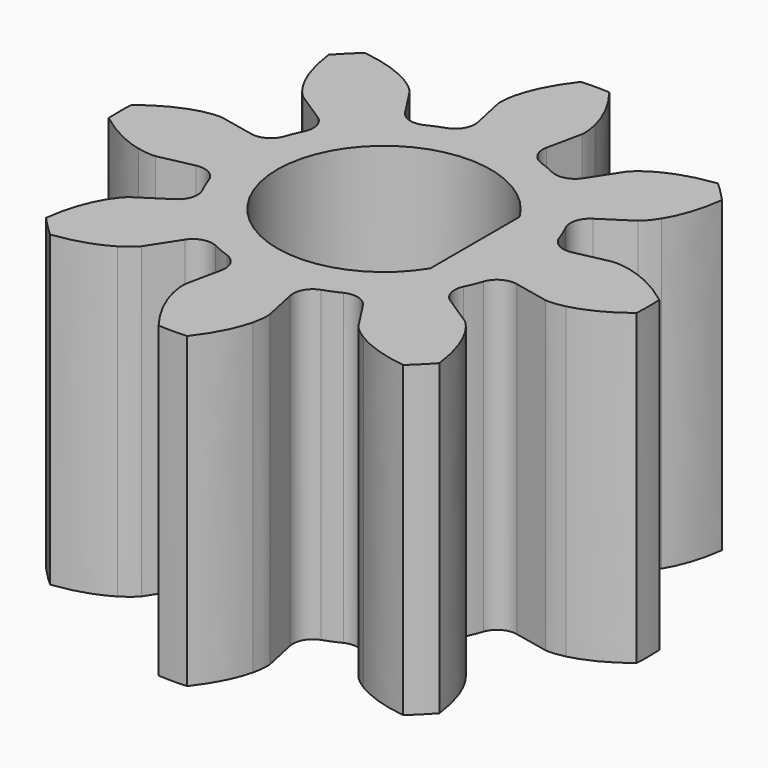
from build123d import *

# Parameters (mm, degrees)
EXTRUDE001_DEPTH = 7
EXTRUDE_DEPTH    = 7


with BuildPart() as extrude001:
    # Sketch → Extrude001 (new body)
    with BuildSketch(Plane.XY):
        with BuildLine():
            ThreePointArc((2.067686, 1.266527), (-2.424751, 0), (2.067686, -1.266527))
            Line((2.067686, 1.266527), (2.067686, -1.266527))
        make_face()
    extrude(amount=EXTRUDE001_DEPTH)


with BuildPart() as cut:
    # InvoluteGear → Extrude (new body)
    with BuildSketch(Plane.XY):
        with BuildLine():
            Line((3.640137, -0.780641), (4.428534, -0.948542))
            add(Edge.make_bspline(
                [(4.428534, -0.948542), (4.475322, -0.95426), (4.615415, -0.963165), (4.854172, -0.907847)],
                knots=[0, 0, 0, 0, 1, 1, 1, 1], degree=3))
            add(Edge.make_bspline(
                [(4.854172, -0.907847), (5.136527, -0.839643), (5.533703, -0.681554), (5.993429, -0.323554)],
                knots=[0, 0, 0, 0, 1, 1, 1, 1], degree=3))
            ThreePointArc((5.993429, -0.323554), (6.002159, 0), (5.993429, 0.323554))
            add(Edge.make_bspline(
                [(5.993429, 0.323554), (5.533703, 0.681554), (5.136527, 0.839643), (4.854172, 0.907847)],
                knots=[0, 0, 0, 0, 1, 1, 1, 1], degree=3))
            add(Edge.make_bspline(
                [(4.854172, 0.907847), (4.615415, 0.963165), (4.475322, 0.95426), (4.428534, 0.948542)],
                knots=[0, 0, 0, 0, 1, 1, 1, 1], degree=3))
            Line((4.428534, 0.948542), (3.640137, 0.780641))
            ThreePointArc((3.640137, 0.780641), (3.325763, 0.828082), (3.121209, 1.071474))
            ThreePointArc((3.121209, 1.071474), (3.048802, 1.262855), (2.964674, 1.449382))
            ThreePointArc((2.964674, 1.449382), (2.937212, 1.766127), (3.125962, 2.021969))
            Line((3.125962, 2.021969), (3.802167, 2.460726))
            add(Edge.make_bspline(
                [(3.802167, 2.460726), (3.839295, 2.489767), (3.944651, 2.582531), (4.074363, 2.790473)],
                knots=[0, 0, 0, 0, 1, 1, 1, 1], degree=3))
            add(Edge.make_bspline(
                [(4.074363, 2.790473), (4.225791, 3.038356), (4.39485, 3.430987), (4.466781, 4.009207)],
                knots=[0, 0, 0, 0, 1, 1, 1, 1], degree=3))
            ThreePointArc((4.466781, 4.009207), (4.244167, 4.244167), (4.009207, 4.466781))
            add(Edge.make_bspline(
                [(4.009207, 4.466781), (3.430987, 4.39485), (3.038356, 4.225791), (2.790473, 4.074363)],
                knots=[0, 0, 0, 0, 1, 1, 1, 1], degree=3))
            add(Edge.make_bspline(
                [(2.790473, 4.074363), (2.582531, 3.944651), (2.489767, 3.839295), (2.460726, 3.802167)],
                knots=[0, 0, 0, 0, 1, 1, 1, 1], degree=3))
            Line((2.460726, 3.802167), (2.021969, 3.125962))
            ThreePointArc((2.021969, 3.125962), (1.766127, 2.937212), (1.449382, 2.964674))
            ThreePointArc((1.449382, 2.964674), (1.262855, 3.048802), (1.071474, 3.121209))
            ThreePointArc((1.071474, 3.121209), (0.828082, 3.325763), (0.780641, 3.640137))
            Line((0.780641, 3.640137), (0.948542, 4.428534))
            add(Edge.make_bspline(
                [(0.948542, 4.428534), (0.95426, 4.475322), (0.963165, 4.615415), (0.907847, 4.854172)],
                knots=[0, 0, 0, 0, 1, 1, 1, 1], degree=3))
            add(Edge.make_bspline(
                [(0.907847, 4.854172), (0.839643, 5.136527), (0.681554, 5.533703), (0.323554, 5.993429)],
                knots=[0, 0, 0, 0, 1, 1, 1, 1], degree=3))
            ThreePointArc((0.323554, 5.993429), (0, 6.002159), (-0.323554, 5.993429))
            add(Edge.make_bspline(
                [(-0.323554, 5.993429), (-0.681554, 5.533703), (-0.839643, 5.136527), (-0.907847, 4.854172)],
                knots=[0, 0, 0, 0, 1, 1, 1, 1], degree=3))
            add(Edge.make_bspline(
                [(-0.907847, 4.854172), (-0.963165, 4.615415), (-0.95426, 4.475322), (-0.948542, 4.428534)],
                knots=[0, 0, 0, 0, 1, 1, 1, 1], degree=3))
            Line((-0.948542, 4.428534), (-0.780641, 3.640137))
            ThreePointArc((-0.780641, 3.640137), (-0.828082, 3.325763), (-1.071474, 3.121209))
            ThreePointArc((-1.071474, 3.121209), (-1.262855, 3.048802), (-1.449382, 2.964674))
            ThreePointArc((-1.449382, 2.964674), (-1.766127, 2.937212), (-2.021969, 3.125962))
            Line((-2.021969, 3.125962), (-2.460726, 3.802167))
            add(Edge.make_bspline(
                [(-2.460726, 3.802167), (-2.489767, 3.839295), (-2.582531, 3.944651), (-2.790473, 4.074363)],
                knots=[0, 0, 0, 0, 1, 1, 1, 1], degree=3))
            add(Edge.make_bspline(
                [(-2.790473, 4.074363), (-3.038356, 4.225791), (-3.430987, 4.39485), (-4.009207, 4.466781)],
                knots=[0, 0, 0, 0, 1, 1, 1, 1], degree=3))
            ThreePointArc((-4.009207, 4.466781), (-4.244167, 4.244167), (-4.466781, 4.009207))
            add(Edge.make_bspline(
                [(-4.466781, 4.009207), (-4.39485, 3.430987), (-4.225791, 3.038356), (-4.074363, 2.790473)],
                knots=[0, 0, 0, 0, 1, 1, 1, 1], degree=3))
            add(Edge.make_bspline(
                [(-4.074363, 2.790473), (-3.944651, 2.582531), (-3.839295, 2.489767), (-3.802167, 2.460726)],
                knots=[0, 0, 0, 0, 1, 1, 1, 1], degree=3))
            Line((-3.802167, 2.460726), (-3.125962, 2.021969))
            ThreePointArc((-3.125962, 2.021969), (-2.937212, 1.766127), (-2.964674, 1.449382))
            ThreePointArc((-2.964674, 1.449382), (-3.048802, 1.262855), (-3.121209, 1.071474))
            ThreePointArc((-3.121209, 1.071474), (-3.325763, 0.828082), (-3.640137, 0.780641))
            Line((-3.640137, 0.780641), (-4.428534, 0.948542))
            add(Edge.make_bspline(
                [(-4.428534, 0.948542), (-4.475322, 0.95426), (-4.615415, 0.963165), (-4.854172, 0.907847)],
                knots=[0, 0, 0, 0, 1, 1, 1, 1], degree=3))
            add(Edge.make_bspline(
                [(-4.854172, 0.907847), (-5.136527, 0.839643), (-5.533703, 0.681554), (-5.993429, 0.323554)],
                knots=[0, 0, 0, 0, 1, 1, 1, 1], degree=3))
            ThreePointArc((-5.993429, 0.323554), (-6.002159, 0), (-5.993429, -0.323554))
            add(Edge.make_bspline(
                [(-5.993429, -0.323554), (-5.533703, -0.681554), (-5.136527, -0.839643), (-4.854172, -0.907847)],
                knots=[0, 0, 0, 0, 1, 1, 1, 1], degree=3))
            add(Edge.make_bspline(
                [(-4.854172, -0.907847), (-4.615415, -0.963165), (-4.475322, -0.95426), (-4.428534, -0.948542)],
                knots=[0, 0, 0, 0, 1, 1, 1, 1], degree=3))
            Line((-4.428534, -0.948542), (-3.640137, -0.780641))
            ThreePointArc((-3.640137, -0.780641), (-3.325763, -0.828082), (-3.121209, -1.071474))
            ThreePointArc((-3.121209, -1.071474), (-3.048802, -1.262855), (-2.964674, -1.449382))
            ThreePointArc((-2.964674, -1.449382), (-2.937212, -1.766127), (-3.125962, -2.021969))
            Line((-3.125962, -2.021969), (-3.802167, -2.460726))
            add(Edge.make_bspline(
                [(-3.802167, -2.460726), (-3.839295, -2.489767), (-3.944651, -2.582531), (-4.074363, -2.790473)],
                knots=[0, 0, 0, 0, 1, 1, 1, 1], degree=3))
            add(Edge.make_bspline(
                [(-4.074363, -2.790473), (-4.225791, -3.038356), (-4.39485, -3.430987), (-4.466781, -4.009207)],
                knots=[0, 0, 0, 0, 1, 1, 1, 1], degree=3))
            ThreePointArc((-4.466781, -4.009207), (-4.244167, -4.244167), (-4.009207, -4.466781))
            add(Edge.make_bspline(
                [(-4.009207, -4.466781), (-3.430987, -4.39485), (-3.038356, -4.225791), (-2.790473, -4.074363)],
                knots=[0, 0, 0, 0, 1, 1, 1, 1], degree=3))
            add(Edge.make_bspline(
                [(-2.790473, -4.074363), (-2.582531, -3.944651), (-2.489767, -3.839295), (-2.460726, -3.802167)],
                knots=[0, 0, 0, 0, 1, 1, 1, 1], degree=3))
            Line((-2.460726, -3.802167), (-2.021969, -3.125962))
            ThreePointArc((-2.021969, -3.125962), (-1.766127, -2.937212), (-1.449382, -2.964674))
            ThreePointArc((-1.449382, -2.964674), (-1.262855, -3.048802), (-1.071474, -3.121209))
            ThreePointArc((-1.071474, -3.121209), (-0.828082, -3.325763), (-0.780641, -3.640137))
            Line((-0.780641, -3.640137), (-0.948542, -4.428534))
            add(Edge.make_bspline(
                [(-0.948542, -4.428534), (-0.95426, -4.475322), (-0.963165, -4.615415), (-0.907847, -4.854172)],
                knots=[0, 0, 0, 0, 1, 1, 1, 1], degree=3))
            add(Edge.make_bspline(
                [(-0.907847, -4.854172), (-0.839643, -5.136527), (-0.681554, -5.533703), (-0.323554, -5.993429)],
                knots=[0, 0, 0, 0, 1, 1, 1, 1], degree=3))
            ThreePointArc((-0.323554, -5.993429), (0, -6.002159), (0.323554, -5.993429))
            add(Edge.make_bspline(
                [(0.323554, -5.993429), (0.681554, -5.533703), (0.839643, -5.136527), (0.907847, -4.854172)],
                knots=[0, 0, 0, 0, 1, 1, 1, 1], degree=3))
            add(Edge.make_bspline(
                [(0.907847, -4.854172), (0.963165, -4.615415), (0.95426, -4.475322), (0.948542, -4.428534)],
                knots=[0, 0, 0, 0, 1, 1, 1, 1], degree=3))
            Line((0.948542, -4.428534), (0.780641, -3.640137))
            ThreePointArc((0.780641, -3.640137), (0.828082, -3.325763), (1.071474, -3.121209))
            ThreePointArc((1.071474, -3.121209), (1.262855, -3.048802), (1.449382, -2.964674))
            ThreePointArc((1.449382, -2.964674), (1.766127, -2.937212), (2.021969, -3.125962))
            Line((2.021969, -3.125962), (2.460726, -3.802167))
            add(Edge.make_bspline(
                [(2.460726, -3.802167), (2.489767, -3.839295), (2.582531, -3.944651), (2.790473, -4.074363)],
                knots=[0, 0, 0, 0, 1, 1, 1, 1], degree=3))
            add(Edge.make_bspline(
                [(2.790473, -4.074363), (3.038356, -4.225791), (3.430987, -4.39485), (4.009207, -4.466781)],
                knots=[0, 0, 0, 0, 1, 1, 1, 1], degree=3))
            ThreePointArc((4.009207, -4.466781), (4.244167, -4.244167), (4.466781, -4.009207))
            add(Edge.make_bspline(
                [(4.466781, -4.009207), (4.39485, -3.430987), (4.225791, -3.038356), (4.074363, -2.790473)],
                knots=[0, 0, 0, 0, 1, 1, 1, 1], degree=3))
            add(Edge.make_bspline(
                [(4.074363, -2.790473), (3.944651, -2.582531), (3.839295, -2.489767), (3.802167, -2.460726)],
                knots=[0, 0, 0, 0, 1, 1, 1, 1], degree=3))
            Line((3.802167, -2.460726), (3.125962, -2.021969))
            ThreePointArc((3.125962, -2.021969), (2.937212, -1.766127), (2.964674, -1.449382))
            ThreePointArc((2.964674, -1.449382), (3.048802, -1.262855), (3.121209, -1.071474))
            ThreePointArc((3.121209, -1.071474), (3.325763, -0.828082), (3.640137, -0.780641))
        make_face()
    extrude(amount=EXTRUDE_DEPTH)

    # Cut: cut Extrude001
    add(extrude001.part, mode=Mode.SUBTRACT)


solid = cut.part
